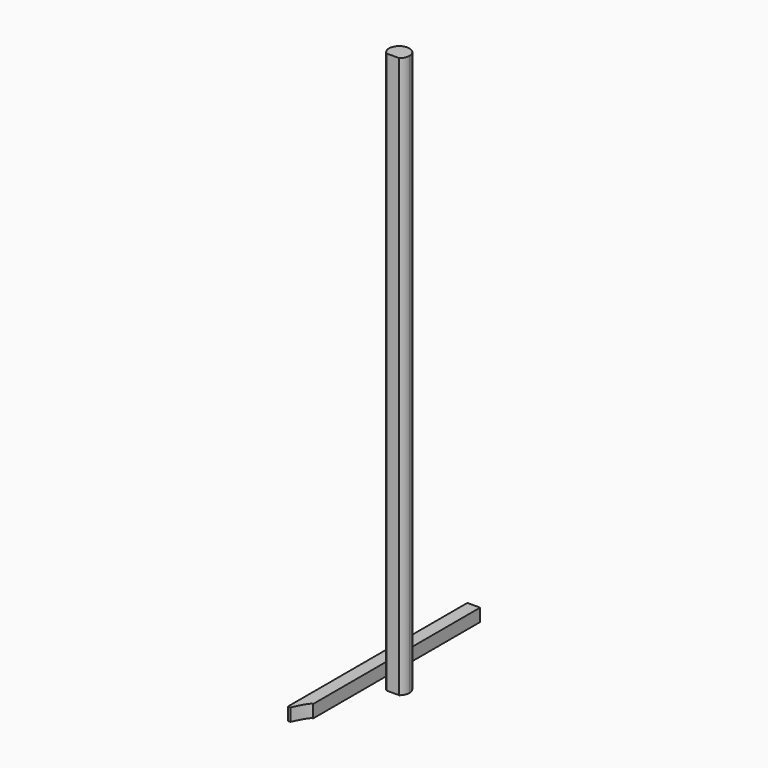
from build123d import *

# Parameters (mm, degrees)
F1_DEPTH = 31.75
F2_DEPTH = 1397


with BuildPart() as f1:
    # F0 (on Top) → F1 (new body)
    with BuildSketch(Plane.XY):
        with BuildLine():
            Line((-21.564527309, 332.3193811532), (-53.314527309, 332.3193811532))
            Line((-53.314527309, 332.3193811532), (-53.314527309, -124.8806188468))
            Line((-53.314527309, -124.8806188468), (-53.314527309, -226.4806188468))
            Line((-53.314527309, -226.4806188468), (-46.964527309, -226.4806188468))
            add(Edge.make_bspline(
                [(-46.964527309, -226.4806188468), (-37.9524062661, -204.9922225277), (-24.445905234, -183.0943230735), (-21.564527309, -188.4466105272)],
                knots=[0, 0, 0, 0, 0.6612647504, 0.6612647504, 0.6612647504, 0.6612647504], degree=3))
            Line((-21.564527309, -188.4466105272), (-21.564527309, 332.3193811532))
        make_face()
    extrude(amount=F1_DEPTH)


with BuildPart() as f2:
    # F0 (on Top) → F2 (new body)
    with BuildSketch(Plane.XY):
        with BuildLine():
            ThreePointArc((48.2024768531, -6.7246523686), (55.2227274523, 2.1046936483), (57.7274768531, 13.1032162763))
            ThreePointArc((57.7274768531, 13.1032162763), (21.3289542251, 35.9984668755), (16.4524768531, -6.7246523686))
            Line((16.4524768531, -6.7246523686), (48.2024768531, -6.7246523686))
        make_face()
    extrude(amount=F2_DEPTH)


solid = Compound([f1.part, f2.part])
